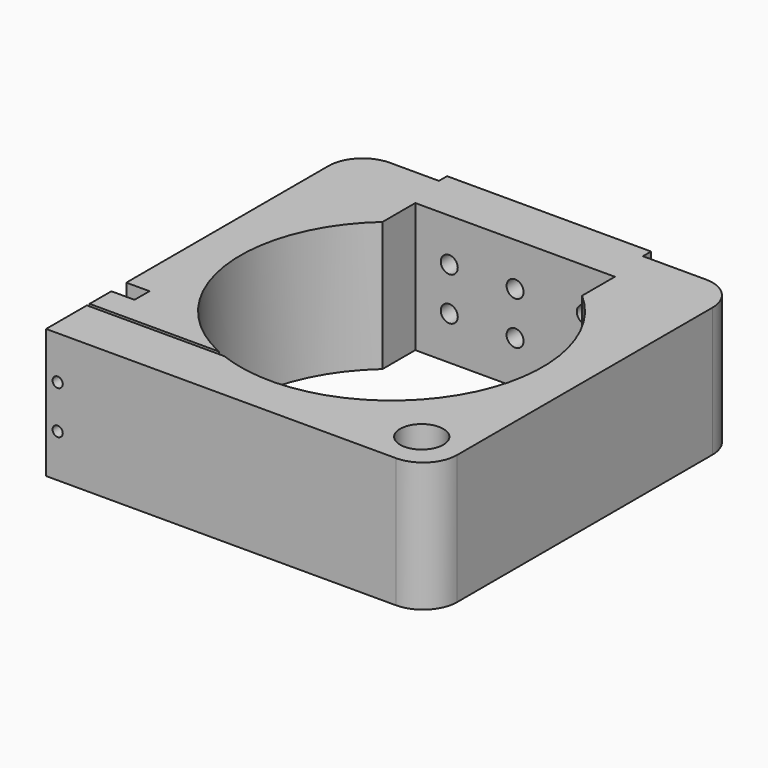
from build123d import *

# Parameters (mm, degrees)
F0_R     = 6.35
F1_DEPTH = 38.1
F3_D     = 5
F3_DEPTH = 15.001
F5_D     = 3
F5_DEPTH = 29.501
F6_R     = 10


with BuildPart() as f1:
    # F0 (on Top) → F1 (new body)
    with BuildSketch(Plane.XY):
        with BuildLine():
            ThreePointArc((-18.4282391997, -40.45), (-43.9709210804, -6.508502081), (-29.3559965753, 33.3770574658))
            Line((-29.3559965753, 33.3770574658), (-29.3559965753, 45.4292414335))
            Line((-29.3559965753, 45.4292414335), (29.3559965753, 45.4292414335))
            Line((29.3559965753, 45.4292414335), (29.3559965753, 33.3770574658))
            ThreePointArc((29.3559965753, 33.3770574658), (38.0001883545, -23.0605330603), (-16.0530370958, -41.45))
            Line((-16.0530370958, -41.45), (-56.45, -41.45))
            Line((-56.45, -41.45), (-56.45, -56.45))
            Line((-56.45, -56.45), (56.45, -56.45))
            Line((56.45, -56.45), (56.45, 57.4292414335))
            Line((56.45, 57.4292414335), (28, 57.4292414335))
            Line((28, 57.4292414335), (28, 60.4292414335))
            Line((28, 60.4292414335), (-32, 60.4292414335))
            Line((-32, 60.4292414335), (-32, 57.4292414335))
            Line((-32, 57.4292414335), (-56.45, 57.4292414335))
            Line((-56.45, 57.4292414335), (-56.45, -26.95))
            Line((-56.45, -26.95), (-49.6300168369, -26.95))
            Line((-49.6300168369, -26.95), (-49.6300168369, -32.45))
            Line((-49.6300168369, -32.45), (-56.45, -32.45))
            Line((-56.45, -32.45), (-56.45, -40.45))
            Line((-56.45, -40.45), (-18.4282391997, -40.45))
        make_face()
        with Locations((44.45, -44.45)):
            Circle(F0_R, mode=Mode.SUBTRACT)
    extrude(amount=F1_DEPTH)

    # F3 (through all, one way)
    with BuildSketch(Plane.XZ.offset(-45.4292414335)):
        with Locations((-19.3559965753, 25.4), (-19.3559965753, 12.7), (20.6440034247, 25.4), (20.6440034247, 12.7), (0, 25.4), (0, 12.7)):
            Circle(F3_D / 2)
    extrude(amount=-F3_DEPTH, mode=Mode.SUBTRACT)

    # F5 (through all, one way)
    with BuildSketch(Plane(origin=(0, -26.95, 0), x_dir=(1, 0, 0), z_dir=(0, 1, 0))):
        with Locations((-53.0400084184, -25.4), (-53.0400084184, -12.7)):
            Circle(F5_D / 2)
    extrude(amount=-F5_DEPTH, mode=Mode.SUBTRACT)

    # F6
    f6_edges = [f1.edges().sort_by_distance(p)[0] for p in [
        (56.45, 57.429241, 19.05),
        (-56.45, 57.429241, 19.05),
        (56.45, -56.45, 19.05),
    ]]
    fillet(f6_edges, radius=F6_R)


solid = f1.part
